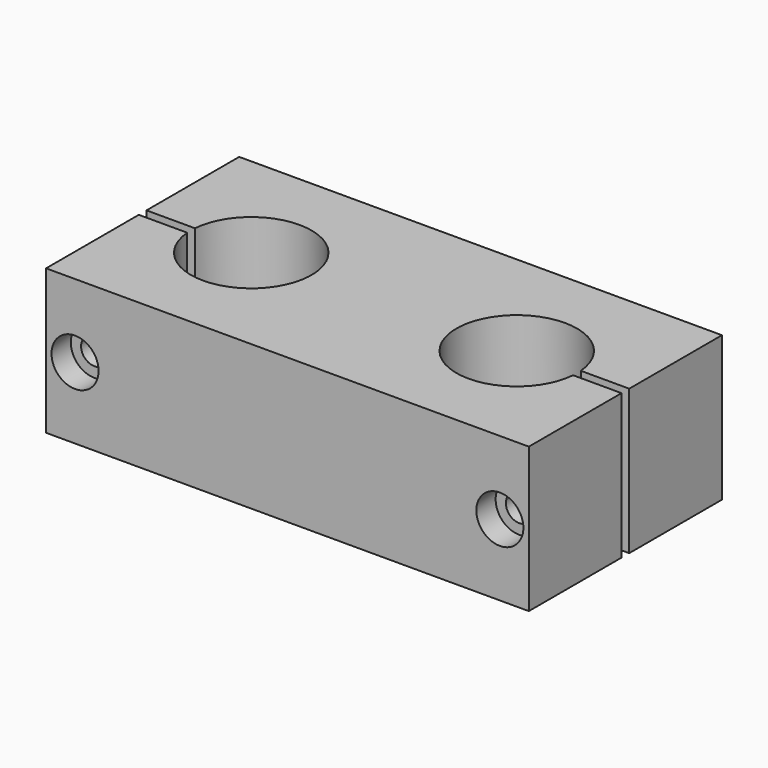
from build123d import *

# Parameters (mm, degrees)
F1_DEPTH       = 30
F3_D           = 5.5
F3_DEPTH       = 25
F3_CBORE_D     = 9.75
F3_CBORE_DEPTH = 5
F3_TIP         = 1.6523667023
F5_D           = 4.1


with BuildPart() as f1:
    # F0 (on Top) → F1 (new body)
    with BuildSketch(Plane.XY):
        with BuildLine():
            Line((50, 1), (50, 25))
            Line((50, 25), (-50, 25))
            Line((-50, 25), (-50, 1))
            Line((-50, 1), (-39.9599357944, 1))
            ThreePointArc((-39.9599357944, 1), (-15, 0), (-39.9599357944, -1))
            Line((-39.9599357944, -1), (-50, -1))
            Line((-50, -1), (-50, -25))
            Line((-50, -25), (50, -25))
            Line((50, -25), (50, -1))
            Line((50, -1), (39.9599357944, -1))
            ThreePointArc((39.9599357944, -1), (15, 0), (39.9599357944, 1))
            Line((39.9599357944, 1), (50, 1))
        make_face()
    extrude(amount=F1_DEPTH)

    # F3
    with Locations(Plane.XZ.offset(25)):
        with Locations((-44, 14.8143433034), (44, 14.8143433034)):
            CounterBoreHole(F3_D / 2, F3_CBORE_D / 2, F3_CBORE_DEPTH, depth=F3_DEPTH)
            with Locations((0, 0, -(F3_DEPTH + F3_TIP / 2))):  # 118° drill point
                Cone(0, F3_D / 2, F3_TIP, mode=Mode.SUBTRACT)

    # F5 (through all)
    with Locations(Plane.XZ.offset(-1)):
        with Locations((-44, 14.8143433034), (44, 14.8143433034)):
            Hole(F5_D / 2)


solid = f1.part
